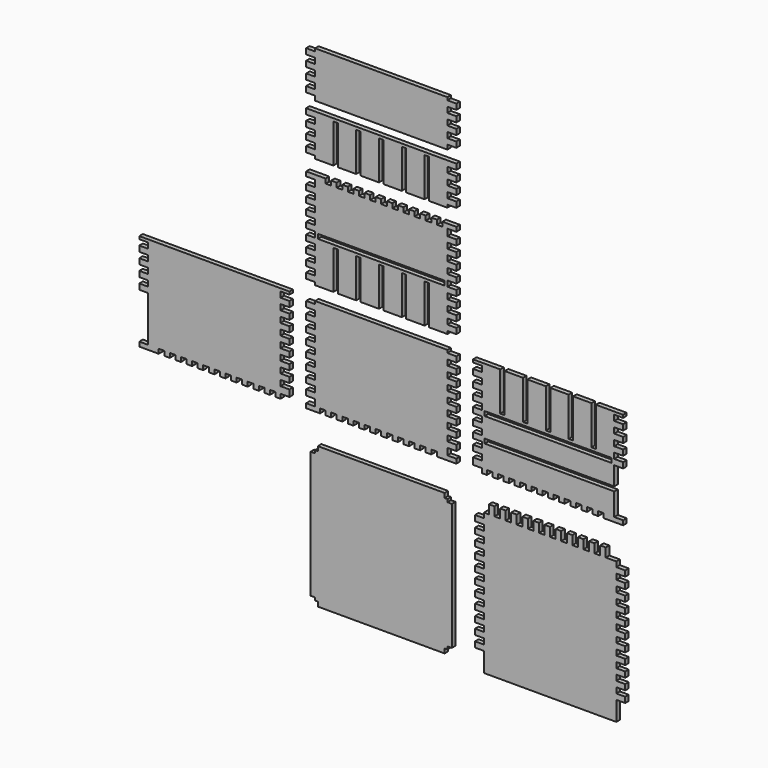
from build123d import *

# Parameters (mm, degrees)
F0_W     = 3.2
F0_H     = 2
F0_W_2   = 6.6
F0_H_2   = 13
F0_H_3   = 1.6
F0_W_3   = 2
F0_W_4   = 45.6
F0_H_4   = 1
F0_H_5   = 2.4
F0_H_6   = 3.2
F0_W_5   = 23.8
F1_DEPTH = 1.6


with BuildPart() as f1:
    # F0 (on Front) → F1 (new body)
    with BuildSketch(Plane.XZ):
        Polygon((23.8, 97.5), (0, 97.5), (-23.8, 97.5), (-23.8, 96.5), (-23.8, 94.5), (-23.8, 92.5), (-23.8, 90.5), (-23.8, 88.5), (-23.8, 86.5), (-23.8, 84.5), (-23.8, 82.5), (-23.8, 80.9), (23.8, 80.9), (23.8, 82.5), (23.8, 84.5), (23.8, 86.5), (23.8, 88.5), (23.8, 90.5), (23.8, 92.5), (23.8, 94.5), (23.8, 96.5), align=None)
        with Locations((-25.4, 95.5)):
            Rectangle(F0_W, F0_H)
        with Locations((25.4, 95.5)):
            Rectangle(F0_W, F0_H)
        with Locations((-25.4, 91.5)):
            Rectangle(F0_W, F0_H)
        with Locations((25.4, 91.5)):
            Rectangle(F0_W, F0_H)
        with Locations((-25.4, 87.5)):
            Rectangle(F0_W, F0_H)
        with Locations((-25.4, 83.5)):
            Rectangle(F0_W, F0_H)
        with Locations((25.4, 83.5)):
            Rectangle(F0_W, F0_H)
        with Locations((25.4, 87.5)):
            Rectangle(F0_W, F0_H)
        Polygon((17.2, 76.5), (17.2, 75.5), (23.8, 75.5), (23.8, 77.5), (-23.8, 77.5), (-23.8, 75.5), (-17.2, 75.5), (-17.2, 76.5), (-15.6, 76.5), (-15.6, 75.5), (-9, 75.5), (-9, 76.5), (-7.4, 76.5), (-7.4, 75.5), (-0.8, 75.5), (-0.8, 76.5), (0.8, 76.5), (0.8, 75.5), (7.4, 75.5), (7.4, 76.5), (9, 76.5), (9, 75.5), (15.6, 75.5), (15.6, 76.5), align=None)
        with Locations((4.1, 69)):
            Rectangle(F0_W_2, F0_H_2)
        with Locations((-4.1, 69)):
            Rectangle(F0_W_2, F0_H_2)
        with Locations((-12.3, 69)):
            Rectangle(F0_W_2, F0_H_2)
        Polygon((-17.2, 75.5), (-23.8, 75.5), (-23.8, 73.5), (-23.8, 71.5), (-23.8, 69.5), (-23.8, 67.5), (-23.8, 65.5), (-23.8, 63.5), (-23.8, 62.5), (-17.2, 62.5), align=None)
        Polygon((17.2, 62.5), (23.8, 62.5), (23.8, 63.5), (23.8, 65.5), (23.8, 67.5), (23.8, 69.5), (23.8, 71.5), (23.8, 73.5), (23.8, 75.5), (17.2, 75.5), align=None)
        with Locations((12.3, 69)):
            Rectangle(F0_W_2, F0_H_2)
        with Locations((-25.4, 76.5)):
            Rectangle(F0_W, F0_H)
        with Locations((-25.4, 72.5)):
            Rectangle(F0_W, F0_H)
        with Locations((-25.4, 68.5)):
            Rectangle(F0_W, F0_H)
        with Locations((-25.4, 64.5)):
            Rectangle(F0_W, F0_H)
        with Locations((25.4, 64.5)):
            Rectangle(F0_W, F0_H)
        with Locations((25.4, 68.5)):
            Rectangle(F0_W, F0_H)
        with Locations((25.4, 72.5)):
            Rectangle(F0_W, F0_H)
        with Locations((25.4, 76.5)):
            Rectangle(F0_W, F0_H)
        with Locations((25.4, 24.5)):
            Rectangle(F0_W, F0_H)
        with Locations((25.4, 28.5)):
            Rectangle(F0_W, F0_H)
        with Locations((25.4, 32.5)):
            Rectangle(F0_W, F0_H)
        with Locations((25.4, 36.5)):
            Rectangle(F0_W, F0_H)
        with Locations((25.4, 44.5)):
            Rectangle(F0_W, F0_H)
        with Locations((25.4, 48.5)):
            Rectangle(F0_W, F0_H)
        with Locations((25.4, 56.7)):
            Rectangle(F0_W, F0_H_3)
        with Locations((-25.4, 56.7)):
            Rectangle(F0_W, F0_H_3)
        with Locations((-25.4, 52.5)):
            Rectangle(F0_W, F0_H)
        with Locations((-25.4, 44.5)):
            Rectangle(F0_W, F0_H)
        with Locations((-25.4, 24.5)):
            Rectangle(F0_W, F0_H)
        with Locations((-25.4, 28.5)):
            Rectangle(F0_W, F0_H)
        with Locations((-25.4, 32.5)):
            Rectangle(F0_W, F0_H)
        with Locations((-25.4, 36.5)):
            Rectangle(F0_W, F0_H)
        with Locations((25.4, 40.5)):
            Rectangle(F0_W, F0_H)
        with Locations((-25.4, 40.5)):
            Rectangle(F0_W, F0_H)
        with Locations((25.4, 52.5)):
            Rectangle(F0_W, F0_H)
        with Locations((-25.4, 48.5)):
            Rectangle(F0_W, F0_H)
        Polygon((23.8, 17.5), (0, 17.5), (-23.8, 17.5), (-23.8, 16.5), (-23.8, 14.5), (-23.8, 12.5), (-23.8, 10.5), (-23.8, 8.5), (-23.8, 6.5), (-23.8, 4.5), (-23.8, 2.5), (-23.8, 0.5), (-23.8, -1.5), (-23.8, -3.5), (-23.8, -5.5), (-23.8, -7.5), (-23.8, -9.5), (-23.8, -11.5), (-23.8, -13.5), (-23.8, -15.9), (-23.8, -17.5), (-22, -17.5), (-22, -15.9), (-20, -15.9), (-18, -15.9), (-16, -15.9), (-14, -15.9), (-12, -15.9), (-10, -15.9), (-8, -15.9), (-6, -15.9), (-4, -15.9), (-2, -15.9), (0, -15.9), (2, -15.9), (4, -15.9), (6, -15.9), (8, -15.9), (10, -15.9), (12, -15.9), (14, -15.9), (16, -15.9), (18, -15.9), (20, -15.9), (22, -15.9), (22, -17.5), (23.8, -17.5), (23.8, -15.9), (23.8, -13.5), (23.8, -11.5), (23.8, -9.5), (23.8, -7.5), (23.8, -5.5), (23.8, -3.5), (23.8, -1.5), (23.8, 0.5), (23.8, 2.5), (23.8, 4.5), (23.8, 6.5), (23.8, 8.5), (23.8, 10.5), (23.8, 12.5), (23.8, 14.5), (23.8, 16.5), align=None)
        with Locations((25.4, 15.5)):
            Rectangle(F0_W, F0_H)
        with Locations((-25.4, 15.5)):
            Rectangle(F0_W, F0_H)
        with Locations((-25.4, 11.5)):
            Rectangle(F0_W, F0_H)
        with Locations((-25.4, 7.5)):
            Rectangle(F0_W, F0_H)
        with Locations((-25.4, 3.5)):
            Rectangle(F0_W, F0_H)
        with Locations((-25.4, -0.5)):
            Rectangle(F0_W, F0_H)
        with Locations((-25.4, -4.5)):
            Rectangle(F0_W, F0_H)
        with Locations((-25.4, -8.5)):
            Rectangle(F0_W, F0_H)
        with Locations((-25.4, -12.5)):
            Rectangle(F0_W, F0_H)
        with Locations((-25.4, -16.7)):
            Rectangle(F0_W, F0_H_3)
        with Locations((25.4, -16.7)):
            Rectangle(F0_W, F0_H_3)
        with Locations((25.4, -12.5)):
            Rectangle(F0_W, F0_H)
        with Locations((25.4, -8.5)):
            Rectangle(F0_W, F0_H)
        with Locations((25.4, -4.5)):
            Rectangle(F0_W, F0_H)
        with Locations((25.4, -0.5)):
            Rectangle(F0_W, F0_H)
        with Locations((25.4, 3.5)):
            Rectangle(F0_W, F0_H)
        with Locations((25.4, 7.5)):
            Rectangle(F0_W, F0_H)
        with Locations((25.4, 11.5)):
            Rectangle(F0_W, F0_H)
        with Locations((-19, -16.7)):
            Rectangle(F0_W_3, F0_H_3)
        with Locations((-15, -16.7)):
            Rectangle(F0_W_3, F0_H_3)
        with Locations((-11, -16.7)):
            Rectangle(F0_W_3, F0_H_3)
        with Locations((-7, -16.7)):
            Rectangle(F0_W_3, F0_H_3)
        with Locations((-3, -16.7)):
            Rectangle(F0_W_3, F0_H_3)
        with Locations((1, -16.7)):
            Rectangle(F0_W_3, F0_H_3)
        with Locations((5, -16.7)):
            Rectangle(F0_W_3, F0_H_3)
        with Locations((9, -16.7)):
            Rectangle(F0_W_3, F0_H_3)
        with Locations((13, -16.7)):
            Rectangle(F0_W_3, F0_H_3)
        with Locations((17, -16.7)):
            Rectangle(F0_W_3, F0_H_3)
        with Locations((21, -16.7)):
            Rectangle(F0_W_3, F0_H_3)
        with Locations((-21, 56.7)):
            Rectangle(F0_W_3, F0_H_3)
        with Locations((-17, 56.7)):
            Rectangle(F0_W_3, F0_H_3)
        with Locations((-13, 56.7)):
            Rectangle(F0_W_3, F0_H_3)
        with Locations((-9, 56.7)):
            Rectangle(F0_W_3, F0_H_3)
        with Locations((-5, 56.7)):
            Rectangle(F0_W_3, F0_H_3)
        Polygon((-7.4, 22.5), (-0.8, 22.5), (-0.8, 36.5), (0.8, 36.5), (0.8, 22.5), (7.4, 22.5), (7.4, 36.5), (9, 36.5), (9, 22.5), (15.6, 22.5), (15.6, 36.5), (17.2, 36.5), (17.2, 22.5), (23.8, 22.5), (23.8, 23.5), (23.8, 25.5), (23.8, 27.5), (23.8, 29.5), (23.8, 31.5), (23.8, 33.5), (23.8, 35.5), (23.8, 37.5), (23.8, 39.5), (23.8, 41.5), (23.8, 43.5), (23.8, 45.5), (23.8, 47.5), (23.8, 49.5), (23.8, 51.5), (23.8, 53.5), (23.8, 55.9), (23.8, 57.5), (22, 57.5), (22, 55.9), (20, 55.9), (18, 55.9), (16, 55.9), (14, 55.9), (12, 55.9), (10, 55.9), (8, 55.9), (6, 55.9), (4, 55.9), (2, 55.9), (0, 55.9), (-2, 55.9), (-4, 55.9), (-6, 55.9), (-8, 55.9), (-10, 55.9), (-12, 55.9), (-14, 55.9), (-16, 55.9), (-18, 55.9), (-20, 55.9), (-22, 55.9), (-22, 57.5), (-23.8, 57.5), (-23.8, 55.9), (-23.8, 53.5), (-23.8, 51.5), (-23.8, 49.5), (-23.8, 47.5), (-23.8, 45.5), (-23.8, 43.5), (-23.8, 41.5), (-23.8, 39.5), (-23.8, 37.5), (-23.8, 35.5), (-23.8, 33.5), (-23.8, 31.5), (-23.8, 29.5), (-23.8, 27.5), (-23.8, 25.5), (-23.8, 23.5), (-23.8, 22.5), (-17.2, 22.5), (-17.2, 36.5), (-15.6, 36.5), (-15.6, 22.5), (-9, 22.5), (-9, 36.5), (-7.4, 36.5), align=None)
        with Locations((0, 38.3)):
            Rectangle(F0_W_4, F0_H_3, mode=Mode.SUBTRACT)
        with Locations((19, 56.7)):
            Rectangle(F0_W_3, F0_H_3)
        with Locations((15, 56.7)):
            Rectangle(F0_W_3, F0_H_3)
        with Locations((11, 56.7)):
            Rectangle(F0_W_3, F0_H_3)
        with Locations((7, 56.7)):
            Rectangle(F0_W_3, F0_H_3)
        with Locations((3, 56.7)):
            Rectangle(F0_W_3, F0_H_3)
        with Locations((-1, 56.7)):
            Rectangle(F0_W_3, F0_H_3)
        Polygon((59.2, 3.5), (59.2, 17.5), (52.6, 17.5), (52.6, 3.5), (51, 3.5), (51, 17.5), (44.4, 17.5), (44.4, 3.5), (42.8, 3.5), (42.8, 17.5), (36.2, 17.5), (36.2, 16.5), (36.2, 14.5), (36.2, 12.5), (36.2, 10.5), (36.2, 8.5), (36.2, 6.5), (36.2, 4.5), (36.2, 2.5), (36.2, 0.5), (36.2, -1.5), (36.2, -3.5), (36.2, -5.5), (36.2, -7.5), (36.2, -9.5), (36.2, -11.5), (36.2, -13.5), (36.2, -15.9), (36.2, -17.5), (38, -17.5), (38, -15.9), (40, -15.9), (42, -15.9), (44, -15.9), (46, -15.9), (48, -15.9), (50, -15.9), (52, -15.9), (54, -15.9), (56, -15.9), (58, -15.9), (60, -15.9), (62, -15.9), (64, -15.9), (66, -15.9), (68, -15.9), (70, -15.9), (72, -15.9), (74, -15.9), (76, -15.9), (78, -15.9), (80, -15.9), (82, -15.9), (82, -17.5), (83.8, -17.5), (83.8, -15.9), (83.8, -7.8), (82.8, -7.8), (37.2, -7.8), (37.2, -6.2), (82.8, -6.2), (83.8, -6.2), (83.8, 0.5), (83.8, 2.5), (83.8, 4.5), (83.8, 6.5), (83.8, 8.5), (83.8, 10.5), (83.8, 12.5), (83.8, 14.5), (83.8, 16.5), (83.8, 17.5), (77.2, 17.5), (77.2, 3.5), (75.6, 3.5), (75.6, 17.5), (69, 17.5), (69, 3.5), (67.4, 3.5), (67.4, 17.5), (60.8, 17.5), (60.8, 3.5), align=None)
        with Locations((60, 1.7)):
            Rectangle(F0_W_4, F0_H_3, mode=Mode.SUBTRACT)
        Polygon((-36.2, 17.5), (-60, 17.5), (-83.8, 17.5), (-83.8, 16.5), (-83.8, 14.5), (-83.8, 12.5), (-83.8, 10.5), (-83.8, 8.5), (-83.8, 6.5), (-83.8, 4.5), (-83.8, 2.5), (-83.8, 0.5), (-83.8, -15.9), (-83.8, -17.5), (-82, -17.5), (-82, -15.9), (-80, -15.9), (-78, -15.9), (-76, -15.9), (-74, -15.9), (-72, -15.9), (-70, -15.9), (-68, -15.9), (-66, -15.9), (-64, -15.9), (-62, -15.9), (-60, -15.9), (-58, -15.9), (-56, -15.9), (-54, -15.9), (-52, -15.9), (-50, -15.9), (-48, -15.9), (-46, -15.9), (-44, -15.9), (-42, -15.9), (-40, -15.9), (-38, -15.9), (-38, -17.5), (-36.2, -17.5), (-36.2, -15.9), (-36.2, -13.5), (-36.2, -11.5), (-36.2, -9.5), (-36.2, -7.5), (-36.2, -5.5), (-36.2, -3.5), (-36.2, -1.5), (-36.2, 0.5), (-36.2, 2.5), (-36.2, 4.5), (-36.2, 6.5), (-36.2, 8.5), (-36.2, 10.5), (-36.2, 12.5), (-36.2, 14.5), (-36.2, 16.5), align=None)
        with Locations((34.6, 17)):
            Rectangle(F0_W, F0_H_4)
        with Locations((-34.6, 17)):
            Rectangle(F0_W, F0_H_4)
        with Locations((85.4, 17)):
            Rectangle(F0_W, F0_H_4)
        with Locations((85.4, -16.7)):
            Rectangle(F0_W, F0_H_3)
        with Locations((34.6, -14.7)):
            Rectangle(F0_W, F0_H_5)
        with Locations((34.6, -10.5)):
            Rectangle(F0_W, F0_H)
        with Locations((34.6, -6.5)):
            Rectangle(F0_W, F0_H)
        with Locations((34.6, -2.5)):
            Rectangle(F0_W, F0_H)
        with Locations((34.6, 1.5)):
            Rectangle(F0_W, F0_H)
        with Locations((34.6, 5.5)):
            Rectangle(F0_W, F0_H)
        with Locations((34.6, 9.5)):
            Rectangle(F0_W, F0_H)
        with Locations((34.6, 13.5)):
            Rectangle(F0_W, F0_H)
        with Locations((85.4, 13.5)):
            Rectangle(F0_W, F0_H)
        with Locations((85.4, 9.5)):
            Rectangle(F0_W, F0_H)
        with Locations((85.4, 5.5)):
            Rectangle(F0_W, F0_H)
        with Locations((85.4, 1.5)):
            Rectangle(F0_W, F0_H)
        with Locations((85.4, 5.5)):
            Rectangle(F0_W, F0_H)
        with Locations((-85.4, -16.7)):
            Rectangle(F0_W, F0_H_3)
        with Locations((-34.6, -14.7)):
            Rectangle(F0_W, F0_H_5)
        with Locations((-34.6, -10.5)):
            Rectangle(F0_W, F0_H)
        with Locations((-34.6, -6.5)):
            Rectangle(F0_W, F0_H)
        with Locations((-34.6, -2.5)):
            Rectangle(F0_W, F0_H)
        with Locations((-34.6, 1.5)):
            Rectangle(F0_W, F0_H)
        with Locations((-34.6, 5.5)):
            Rectangle(F0_W, F0_H)
        with Locations((-34.6, 9.5)):
            Rectangle(F0_W, F0_H)
        with Locations((-34.6, 13.5)):
            Rectangle(F0_W, F0_H)
        with Locations((-85.4, 17)):
            Rectangle(F0_W, F0_H_4)
        with Locations((-85.4, 13.5)):
            Rectangle(F0_W, F0_H)
        with Locations((-85.4, 9.5)):
            Rectangle(F0_W, F0_H)
        with Locations((-85.4, 5.5)):
            Rectangle(F0_W, F0_H)
        with Locations((-85.4, 1.5)):
            Rectangle(F0_W, F0_H)
        with Locations((41, -16.7)):
            Rectangle(F0_W_3, F0_H_3)
        with Locations((45, -16.7)):
            Rectangle(F0_W_3, F0_H_3)
        with Locations((49, -16.7)):
            Rectangle(F0_W_3, F0_H_3)
        with Locations((53, -16.7)):
            Rectangle(F0_W_3, F0_H_3)
        with Locations((57, -16.7)):
            Rectangle(F0_W_3, F0_H_3)
        with Locations((61, -16.7)):
            Rectangle(F0_W_3, F0_H_3)
        with Locations((65, -16.7)):
            Rectangle(F0_W_3, F0_H_3)
        with Locations((69, -16.7)):
            Rectangle(F0_W_3, F0_H_3)
        with Locations((73, -16.7)):
            Rectangle(F0_W_3, F0_H_3)
        with Locations((77, -16.7)):
            Rectangle(F0_W_3, F0_H_3)
        with Locations((81, -16.7)):
            Rectangle(F0_W_3, F0_H_3)
        with Locations((-41, -16.7)):
            Rectangle(F0_W_3, F0_H_3)
        with Locations((-45, -16.7)):
            Rectangle(F0_W_3, F0_H_3)
        with Locations((-49, -16.7)):
            Rectangle(F0_W_3, F0_H_3)
        with Locations((-53, -16.7)):
            Rectangle(F0_W_3, F0_H_3)
        with Locations((-57, -16.7)):
            Rectangle(F0_W_3, F0_H_3)
        with Locations((-61, -16.7)):
            Rectangle(F0_W_3, F0_H_3)
        with Locations((-65, -16.7)):
            Rectangle(F0_W_3, F0_H_3)
        with Locations((-69, -16.7)):
            Rectangle(F0_W_3, F0_H_3)
        with Locations((-73, -16.7)):
            Rectangle(F0_W_3, F0_H_3)
        with Locations((-77, -16.7)):
            Rectangle(F0_W_3, F0_H_3)
        with Locations((-81, -16.7)):
            Rectangle(F0_W_3, F0_H_3)
        with Locations((81, -16.7)):
            Rectangle(F0_W_3, F0_H_3)
        Polygon((22.8, -29.721916), (22.8, -28.121916), (-22.8, -28.121916), (-22.8, -29.721916), (-23.8, -29.721916), (-23.8, -30.721916), (-25.4, -30.721916), (-25.4, -76.321916), (-23.8, -76.321916), (-23.8, -77.321916), (-22.8, -77.321916), (-22.8, -78.921916), (22.8, -78.921916), (22.8, -77.321916), (23.8, -77.321916), (23.8, -76.321916), (25.4, -76.321916), (25.4, -30.721916), (23.8, -30.721916), (23.8, -29.721916), align=None)
        Polygon((84.533646, -29.721916), (82.733646, -29.721916), (80.733646, -29.721916), (78.733646, -29.721916), (76.733646, -29.721916), (74.733646, -29.721916), (72.733646, -29.721916), (70.733646, -29.721916), (68.733646, -29.721916), (66.733646, -29.721916), (64.733646, -29.721916), (62.733646, -29.721916), (60.733646, -29.721916), (58.733646, -29.721916), (56.733646, -29.721916), (54.733646, -29.721916), (52.733646, -29.721916), (50.733646, -29.721916), (48.733646, -29.721916), (46.733646, -29.721916), (44.733646, -29.721916), (42.733646, -29.721916), (40.733646, -29.721916), (38.733646, -29.721916), (36.933646, -29.721916), (36.933646, -31.521916), (36.933646, -33.521916), (36.933646, -35.521916), (36.933646, -37.521916), (36.933646, -39.521916), (36.933646, -41.521916), (36.933646, -43.521916), (36.933646, -45.521916), (36.933646, -47.521916), (36.933646, -49.521916), (36.933646, -51.521916), (36.933646, -53.521916), (36.933646, -55.521916), (36.933646, -57.521916), (36.933646, -59.521916), (36.933646, -61.521916), (36.933646, -63.521916), (36.933646, -65.521916), (36.933646, -67.521916), (36.933646, -69.521916), (36.933646, -71.521916), (36.933646, -73.521916), (36.933646, -75.521916), (36.933646, -77.321916), (60.733646, -77.321916), (84.533646, -77.321916), (84.533646, -75.521916), (84.533646, -73.521916), (84.533646, -71.521916), (84.533646, -69.521916), (84.533646, -67.521916), (84.533646, -65.521916), (84.533646, -63.521916), (84.533646, -61.521916), (84.533646, -59.521916), (84.533646, -57.521916), (84.533646, -55.521916), (84.533646, -53.521916), (84.533646, -51.521916), (84.533646, -49.521916), (84.533646, -47.521916), (84.533646, -45.521916), (84.533646, -43.521916), (84.533646, -41.521916), (84.533646, -39.521916), (84.533646, -37.521916), (84.533646, -35.521916), (84.533646, -33.521916), (84.533646, -31.521916), align=None)
        with Locations((86.133646, -32.521916)):
            Rectangle(F0_W, F0_H)
        with Locations((35.333646, -32.521916)):
            Rectangle(F0_W, F0_H)
        with Locations((86.133646, -36.521916)):
            Rectangle(F0_W, F0_H)
        with Locations((86.133646, -40.521916)):
            Rectangle(F0_W, F0_H)
        with Locations((35.333646, -36.521916)):
            Rectangle(F0_W, F0_H)
        with Locations((35.333646, -40.521916)):
            Rectangle(F0_W, F0_H)
        with Locations((35.333646, -44.521916)):
            Rectangle(F0_W, F0_H)
        with Locations((35.333646, -48.521916)):
            Rectangle(F0_W, F0_H)
        with Locations((35.333646, -52.521916)):
            Rectangle(F0_W, F0_H)
        with Locations((35.333646, -56.521916)):
            Rectangle(F0_W, F0_H)
        with Locations((35.333646, -60.521916)):
            Rectangle(F0_W, F0_H)
        with Locations((35.333646, -64.521916)):
            Rectangle(F0_W, F0_H)
        with Locations((35.333646, -68.521916)):
            Rectangle(F0_W, F0_H)
        with Locations((35.333646, -72.521916)):
            Rectangle(F0_W, F0_H)
        with Locations((86.133646, -44.521916)):
            Rectangle(F0_W, F0_H)
        with Locations((86.133646, -48.521916)):
            Rectangle(F0_W, F0_H)
        with Locations((86.133646, -56.521916)):
            Rectangle(F0_W, F0_H)
        with Locations((86.133646, -60.521916)):
            Rectangle(F0_W, F0_H)
        with Locations((86.133646, -64.521916)):
            Rectangle(F0_W, F0_H)
        with Locations((86.133646, -68.521916)):
            Rectangle(F0_W, F0_H)
        with Locations((86.133646, -72.521916)):
            Rectangle(F0_W, F0_H)
        with Locations((79.733646, -28.121916)):
            Rectangle(F0_W_3, F0_H_6)
        with Locations((75.733646, -28.121916)):
            Rectangle(F0_W_3, F0_H_6)
        with Locations((71.733646, -28.121916)):
            Rectangle(F0_W_3, F0_H_6)
        with Locations((67.733646, -28.121916)):
            Rectangle(F0_W_3, F0_H_6)
        with Locations((63.733646, -28.121916)):
            Rectangle(F0_W_3, F0_H_6)
        with Locations((59.733646, -28.121916)):
            Rectangle(F0_W_3, F0_H_6)
        with Locations((55.733646, -28.121916)):
            Rectangle(F0_W_3, F0_H_6)
        with Locations((51.733646, -28.121916)):
            Rectangle(F0_W_3, F0_H_6)
        with Locations((47.733646, -28.121916)):
            Rectangle(F0_W_3, F0_H_6)
        with Locations((43.733646, -28.121916)):
            Rectangle(F0_W_3, F0_H_6)
        with Locations((39.733646, -28.121916)):
            Rectangle(F0_W_3, F0_H_6)
        with Locations((72.633646, -78.921916)):
            Rectangle(F0_W_5, F0_H_6)
        with Locations((48.833646, -78.921916)):
            Rectangle(F0_W_5, F0_H_6)
        with Locations((86.133646, -52.521916)):
            Rectangle(F0_W, F0_H)
    extrude(amount=F1_DEPTH)


solid = f1.part
